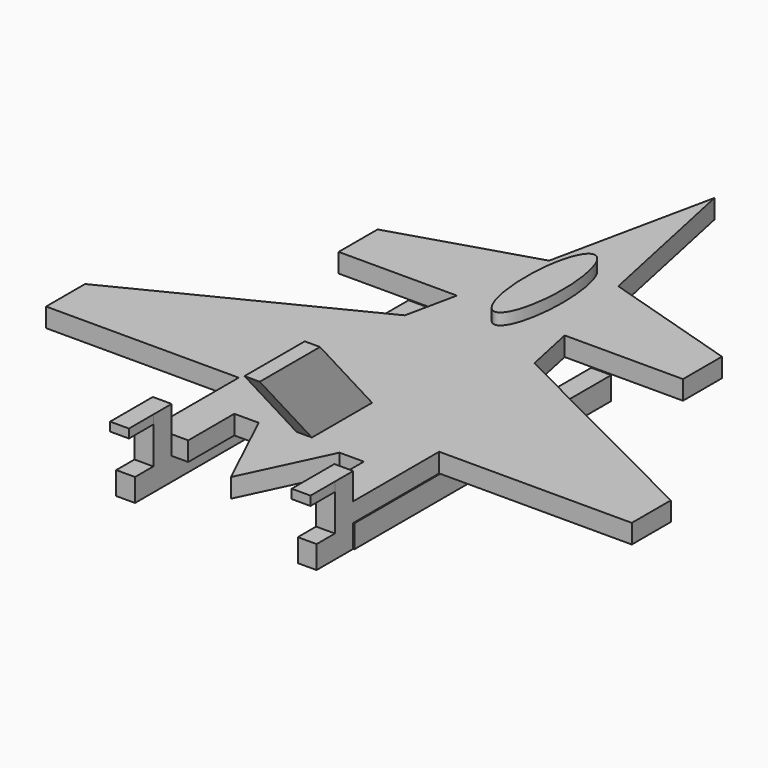
from build123d import *

# Parameters (mm, degrees)
F1_DEPTH      = 3.175
F3_DEPTH      = 5.08
F4_W          = 3.3183870837
F4_H          = 53.4629058093
F5_DEPTH      = 3.81
F7_DEPTH      = 1.27
F7_DEPTH_BACK = 1.27
F8_W          = 3.1340317801
F8_H          = 3.81
F9_W          = 3.1340317801
F9_H          = 3.81
F10_DEPTH     = 7.62
F11_W         = 3.1340317801
F11_H         = 3.81
F13_DEPTH     = 7.62
F15_W         = 3.1340317801
F15_H         = 1.5242329788
F14_W         = 3.1340317801
F14_H         = 1.4657561657
F16_DEPTH     = 5.08


with BuildPart() as f1:
    # F0 (on Top) → F1 (new body)
    with BuildSketch(Plane.XY):
        Polygon((-10.7847582549, 0), (0, 0), (0, 50.974112004), (-5.760514272, 23.7470668758), (-8.9697682119, 8.5785423791), align=None)
        Polygon((0, -49.6836304665), (0, 0), (-10.7847582549, 0), (-10.7847582549, -27.1923393011), (-10.7847582549, -35.488307476), (-6.7289522849, -35.488307476), align=None)
        Polygon((0, 50.974112004), (0, 0), (10.7847582549, 0), (8.9697682119, 8.5785423791), (5.760514272, 23.7470668758), align=None)
        Polygon((10.7847582549, 0), (0, 0), (0, -49.6836304665), (6.7289522849, -35.488307476), (10.7847582549, -35.488307476), (10.7847582549, -27.1923393011), align=None)
        Polygon((-10.7847582549, -27.1923393011), (-10.7847582549, 0), (-48.7618558109, -19.0807264298), (-48.7618558109, -27.1923393011), (-16.6841130704, -27.1923393011), align=None)
        Polygon((48.7618558109, -19.0807264298), (10.7847582549, 0), (10.7847582549, -27.1923393011), (16.6841130704, -27.1923393011), (48.7618558109, -27.1923393011), align=None)
        Polygon((-8.9697682119, 8.5785423791), (-5.760514272, 23.7470668758), (-28.667178005, 16.6841130704), (-28.667178005, 8.5785423791), align=None)
        Polygon((28.667178005, 16.6841130704), (5.760514272, 23.7470668758), (8.9697682119, 8.5785423791), (28.667178005, 8.5785423791), align=None)
        Polygon((-10.7847582549, -35.488307476), (-10.7847582549, -27.1923393011), (-16.6841130704, -27.1923393011), (-16.6841130704, -45.0747571886), (-10.7847582549, -45.0747571886), align=None)
        Polygon((16.6841130704, -27.1923393011), (10.7847582549, -27.1923393011), (10.7847582549, -35.488307476), (10.7847582549, -45.0747571886), (16.6841130704, -45.0747571886), align=None)
    extrude(amount=F1_DEPTH)

    # F2 (on Top) → F3 (join)
    with BuildSketch(Plane.XY):
        with BuildLine():
            add(Edge.make_bspline(
                [(0, 5.2541131154), (5.2276164738, 5.2541131154), (2.6138082369, 20.739919506), (0, 36.2257258967), (-2.6138082369, 20.739919506), (-5.2276164738, 5.2541131154), (0, 5.2541131154)],
                knots=[0, 0, 0, 2.0943951024, 2.0943951024, 4.1887902048, 4.1887902048, 6.2831853072, 6.2831853072, 6.2831853072], degree=2, weights=[1, 0.5, 1, 0.5, 1, 0.5, 1]))
        make_face()
    extrude(amount=F3_DEPTH)

    # F4 (on Top) → F5 (join)
    with BuildSketch(Plane.XY):
        with Locations((-15.2092748322, -18.3433080092)):
            Rectangle(F4_W, F4_H)
        with Locations((15.2092748322, -18.3433080092)):
            Rectangle(F4_W, F4_H)
    extrude(amount=-F5_DEPTH)

    # F6 (on Right) → F7 (join, two sides)
    with BuildSketch(Plane.YZ) as f7_sk:
        Polygon((-45.2591143548, 15.7623384148), (-33.4193573299, 2.0220931471), (-21.0011098534, 2.1588988602), (-32.7229835093, 15.7623384148), align=None)
    extrude(amount=F7_DEPTH)
    extrude(f7_sk.sketch, amount=-F7_DEPTH_BACK)



with BuildPart() as f10:
    # F8 (on face) + F9 (on face) → F10 (new body)
    with BuildSketch(Plane.XZ.offset(45.0747571886)):
        with Locations((-15.1170971803, -1.905)):
            Rectangle(F8_W, F8_H)
    with BuildSketch(Plane.XZ.offset(45.0747571886)):
        with Locations((15.1170971803, -1.905)):
            Rectangle(F9_W, F9_H)
    extrude(amount=F10_DEPTH)


with BuildPart() as f1_1:
    add(f1.part)

    add(f10.part)  # F13 merges F10
    # F11 (on face) + F12 (on face) → F13 (join)
    with BuildSketch(Plane.XY):
        with Locations((-15.1170971803, -46.9797571886)):
            Rectangle(F11_W, F11_H)
    with BuildSketch(Plane.XY):
        Polygon((13.5500812903, -45.0747571886), (13.5500812903, -48.8847571886), (16.6841130704, -48.8847609138), (16.6841130704, -45.0747571886), align=None)
    extrude(amount=F13_DEPTH)

    # F15 (on face) + F14 (on face) → F16 (join)
    with BuildSketch(Plane(origin=(-5.81072e-05, -48.8847410821, 0), x_dir=(1, -1.1887e-06, 0), z_dir=(-1.1887e-06, -1, 0))):
        with Locations((15.1171552876, 6.8578835106)):
            Rectangle(F15_W, F15_H)
    with BuildSketch(Plane.XZ.offset(48.8847571886)):
        with Locations((-15.1170971803, 6.8871219172)):
            Rectangle(F14_W, F14_H)
    extrude(amount=F16_DEPTH, dir=(-1.1887e-06, -1, 0))


solid = f1_1.part
